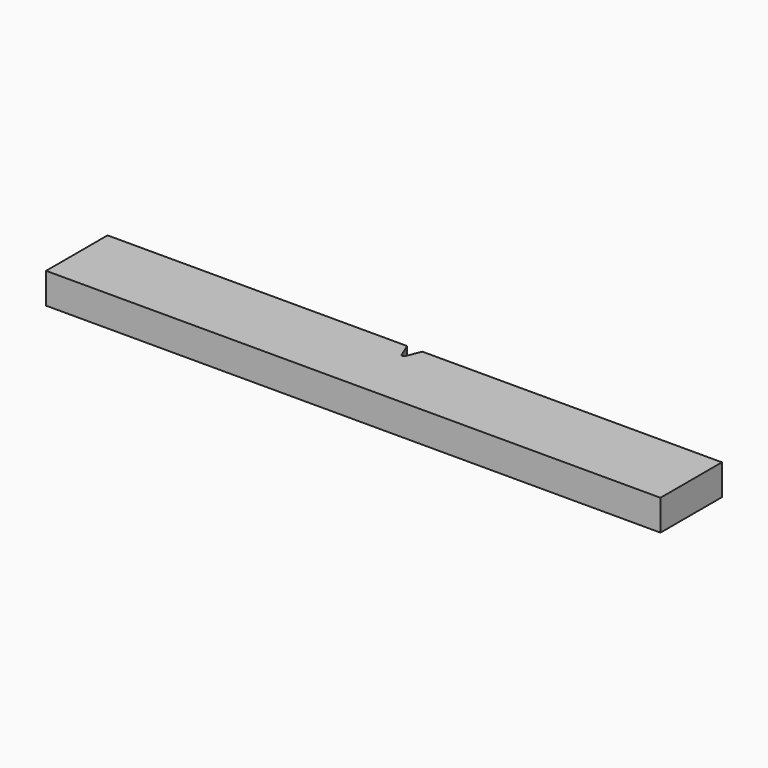
from build123d import *

# Parameters (mm, degrees)
F1_DEPTH = 4


with BuildPart() as f1:
    # F0 (on Top) → F1 (new body)
    with BuildSketch(Plane.XY):
        with BuildLine():
            Line((0, 0), (0, 10))
            Line((0, 10), (-38.997577, 10))
            Line((-38.997577, 10), (-39.762119, 8.154234))
            ThreePointArc((-39.762119, 8.154234), (-39.993088, 7.999904), (-40.224058, 8.154234))
            Line((-40.224058, 8.154234), (-40.9886, 10))
            Line((-40.9886, 10), (-80, 10))
            Line((-80, 10), (-80, 0))
            Line((-80, 0), (0, 0))
        make_face()
    extrude(amount=F1_DEPTH)


solid = f1.part
